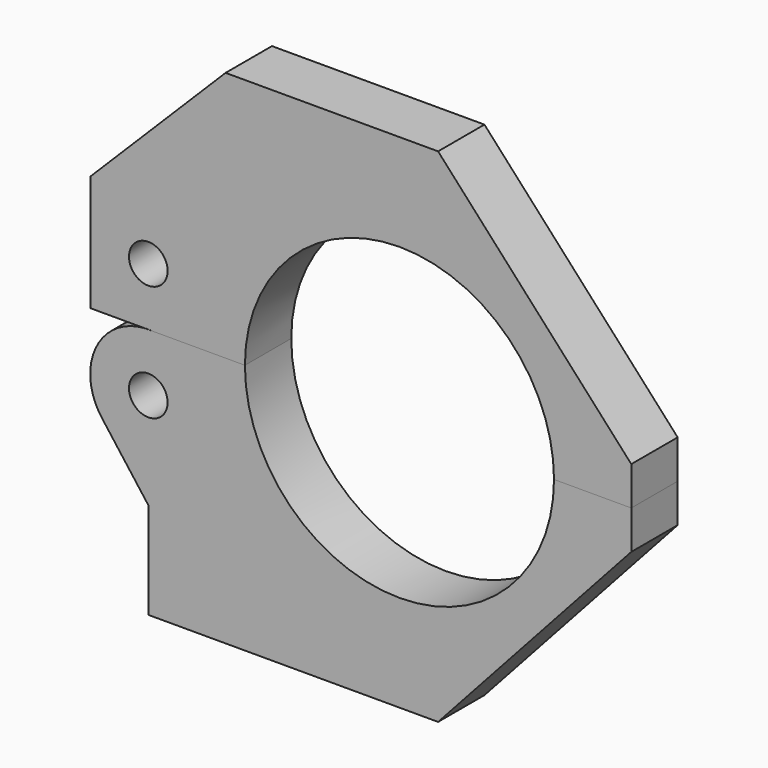
from build123d import *

# Parameters (mm, degrees)
F0_R     = 3.175
F1_DEPTH = 9.525
F2_DEPTH = 9.525


with BuildPart() as f1:
    # F0 (on Front) → F1 (new body)
    with BuildSketch(Plane.XZ):
        with BuildLine():
            Line((6.35, 54.319108), (-28.575, 54.319108))
            Line((-28.575, 54.319108), (-50.8, 32.094108))
            Line((-50.8, 32.094108), (-50.8, 13.044108))
            Line((-50.8, 13.044108), (-41.933352, 13.044108))
            ThreePointArc((-41.933352, 13.044108), (-41.275, 13.066833), (-40.616648, 13.044108))
            Line((-40.616648, 13.044108), (-25.4, 13.044108))
            ThreePointArc((-25.4, 13.044108), (0, 38.444108), (25.4, 13.044108))
            Line((25.4, 13.044108), (38.1, 13.044108))
            Line((38.1, 13.044108), (38.1, 19.394108))
            Line((38.1, 19.394108), (6.35, 54.319108))
        make_face()
        with Locations((-41.275, 22.569108)):
            Circle(F0_R, mode=Mode.SUBTRACT)
    extrude(amount=F1_DEPTH)


with BuildPart() as f2:
    # F0 (on Front) → F2 (new body)
    with BuildSketch(Plane.XZ):
        with BuildLine():
            Line((38.1, 6.694108), (38.1, 13.044108))
            Line((38.1, 13.044108), (25.4, 13.044108))
            ThreePointArc((25.4, 13.044108), (0, -12.355892), (-25.4, 13.044108))
            Line((-25.4, 13.044108), (-40.616648, 13.044108))
            Line((-40.616648, 13.044108), (-41.933352, 13.044108))
            ThreePointArc((-41.933352, 13.044108), (-48.026261, 10.270369), (-50.8, 4.177461))
            Line((-50.8, 4.177461), (-50.8, 2.860756))
            ThreePointArc((-50.8, 2.860756), (-50.220234, 0.18117), (-48.90291, -2.223194))
            Line((-48.90291, -2.223194), (-41.275, -12.355892))
            Line((-41.275, -12.355892), (-41.275, -28.230892))
            Line((-41.275, -28.230892), (6.35, -28.230892))
            Line((6.35, -28.230892), (38.1, 6.694108))
        make_face()
        with Locations((-41.275, 3.519108)):
            Circle(F0_R, mode=Mode.SUBTRACT)
    extrude(amount=F2_DEPTH)


solid = Compound([f1.part, f2.part])
